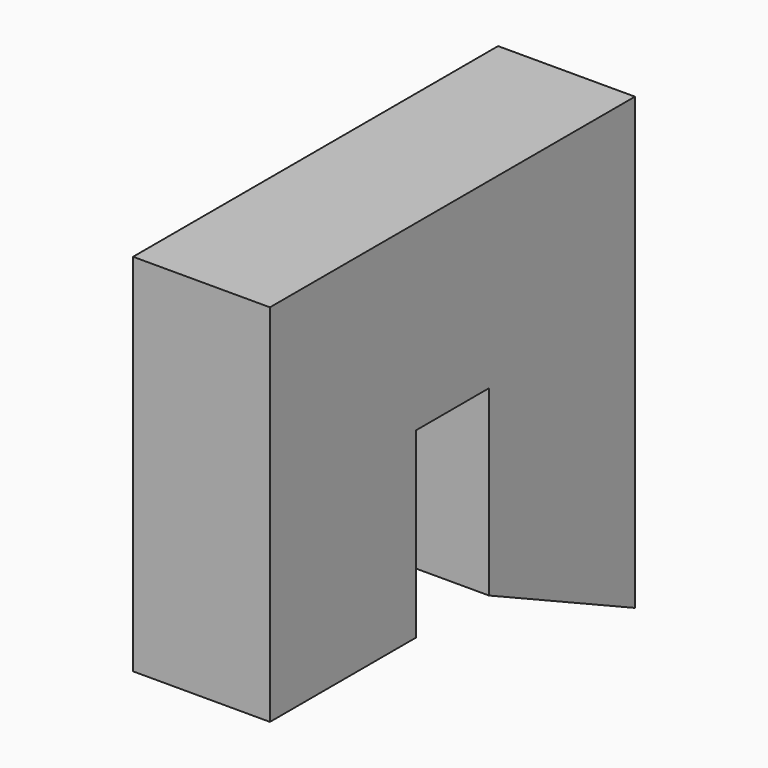
from build123d import *

# Parameters (mm, degrees)
F1_DEPTH = 19.05
F2_ANGLE = 180


with BuildPart() as f1:
    # F0 (on Right) → F1 (new body)
    with BuildSketch(Plane.YZ):
        Polygon((0, 25.4), (0, 0), (25.4, 0), (25.4, 50.8), (0, 50.8), (-38.1, 50.8), (-38.1, -11.844215), (-12.7, 0), (-12.7, 25.4), align=None)
    extrude(amount=-F1_DEPTH)


with BuildPart() as f1_1:
    # F2: moved
    add(f1.part.rotate(Axis((0, 25.4, 25.4), (0, 0, 1)), F2_ANGLE))


solid = f1_1.part
